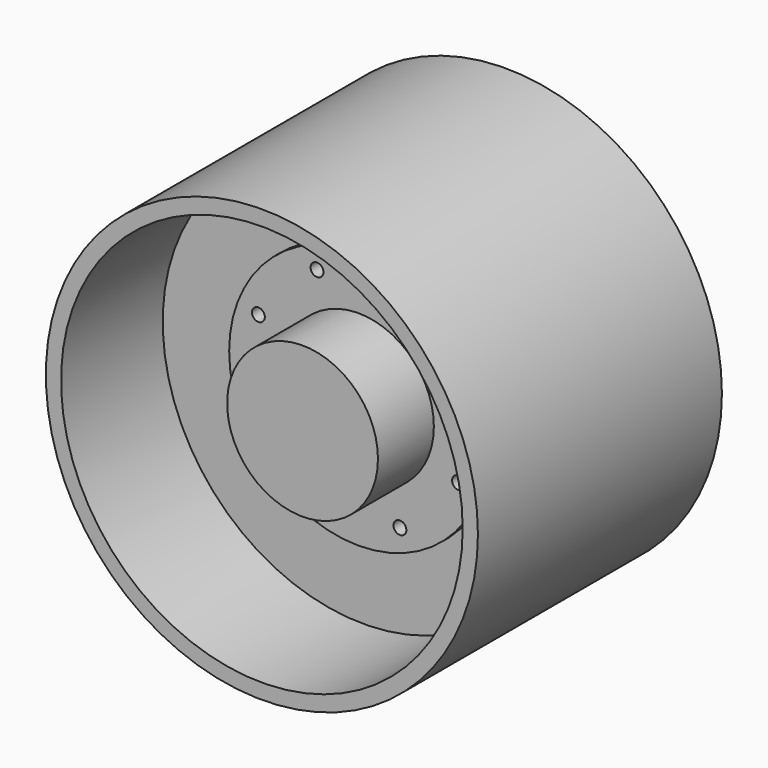
from build123d import *

# Parameters (mm, degrees)
F0_R        = 215.9
F0_R_2      = 200.686457
F1_DEPTH    = 152.4
F0_R_3      = 129.222309
F2_DEPTH    = 25.4
F0_R_4      = 75.352171
F3_DEPTH    = 101.6
F0_R_5      = 6.395598
F0_R_6      = 6.404413
F0_R_7      = 6.428406
F0_R_8      = 6.461019
F0_R_9      = 6.400123
F0_R_10     = 6.431327
F0_R_11     = 6.338285
F0_R_12     = 6.398191
F4_DEPTH    = 31.75
F5_R        = 69.091318
F6_DEPTH    = 95.25
F1_FACE_R   = 215.9
F1_FACE_R_2 = 200.686457
F7_DEPTH    = 304.8


with BuildPart() as f1:
    # F0 (on Front) → F1 (new body)
    with BuildSketch(Plane.XZ):
        Circle(F0_R)
        Circle(F0_R_2, mode=Mode.SUBTRACT)
    extrude(amount=F1_DEPTH)

    # F0 (on Front) → F2 (join)
    with BuildSketch(Plane.XZ):
        Circle(F0_R_2)
        Circle(F0_R_3, mode=Mode.SUBTRACT)
    extrude(amount=F2_DEPTH)

    # F1_face (on face) → F7 (join)
    with BuildSketch(Plane.XZ.offset(152.4)):
        Circle(F1_FACE_R)
        Circle(F1_FACE_R_2, mode=Mode.SUBTRACT)
    extrude(amount=-F7_DEPTH)


with BuildPart() as f3:
    # F0 (on Front) → F3 (new body)
    with BuildSketch(Plane.XZ):
        Circle(F0_R_4)
    extrude(amount=F3_DEPTH)

    # F5 (on face) → F6 (cut)
    with BuildSketch(Plane(origin=(0, 0, 0), x_dir=(-1, 0, 0), z_dir=(0, 1, 0))):
        Circle(F5_R)
    extrude(amount=-F6_DEPTH, mode=Mode.SUBTRACT)


with BuildPart() as f4:
    # F0 (on Front) → F4 (new body)
    with BuildSketch(Plane.XZ):
        Circle(F0_R_3)
        with Locations((-41.421356, -100)):
            Circle(F0_R_5, mode=Mode.SUBTRACT)
        with Locations((-100, -41.421356)):
            Circle(F0_R_6, mode=Mode.SUBTRACT)
        with Locations((41.421356, -100)):
            Circle(F0_R_7, mode=Mode.SUBTRACT)
        with Locations((100, -41.421356)):
            Circle(F0_R_8, mode=Mode.SUBTRACT)
        with Locations((-100, 41.421356)):
            Circle(F0_R_9, mode=Mode.SUBTRACT)
        with Locations((-41.421356, 100)):
            Circle(F0_R_10, mode=Mode.SUBTRACT)
        Circle(F0_R_4, mode=Mode.SUBTRACT)
        with Locations((100, 41.421356)):
            Circle(F0_R_11, mode=Mode.SUBTRACT)
        with Locations((41.421356, 100)):
            Circle(F0_R_12, mode=Mode.SUBTRACT)
    extrude(amount=F4_DEPTH)


solid = Compound([f1.part, f3.part, f4.part])
